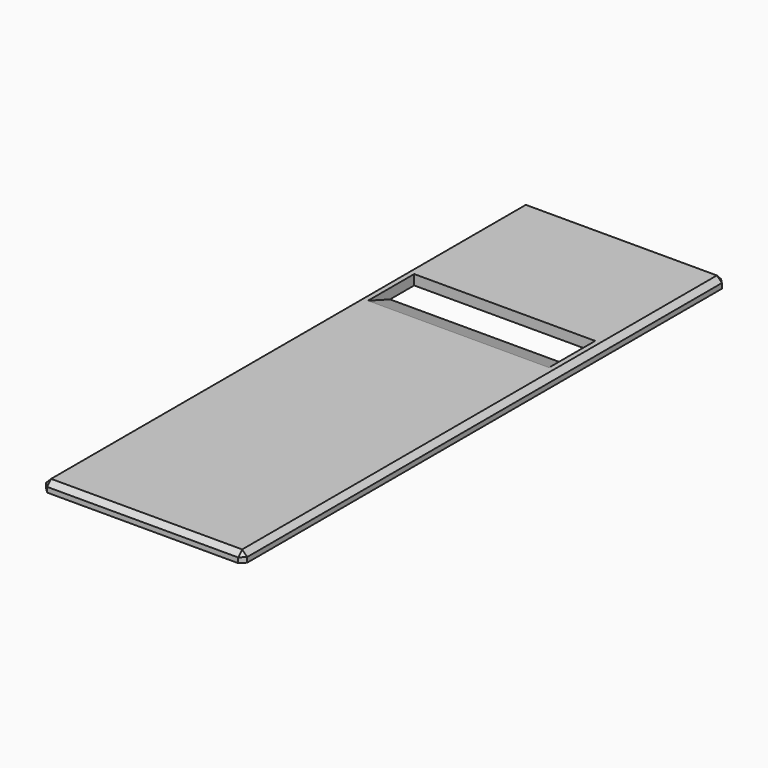
from build123d import *

# Parameters (mm, degrees)
F0_W     = 20
F0_H     = 60
F1_DEPTH = 1
F3_DEPTH = 9
F4_SIZE  = 0.5


with BuildPart() as f1:
    # F0 (on Top) → F1 (new body)
    with BuildSketch(Plane.XY):
        Rectangle(F0_W, F0_H)
    extrude(amount=F1_DEPTH)

    # F2 (on Right) → F3 (cut, symmetric)
    with BuildSketch(Plane.YZ):
        Polygon((9.252523, 1), (12, 0), (15, 0), (15, 1), align=None)
    extrude(amount=F3_DEPTH, both=True, mode=Mode.SUBTRACT)

    # F4
    f4_edges = [f1.edges().sort_by_distance(p)[0] for p in [
        (10, 0, 1),
        (0, -30, 1),
        (-10, 0, 1),
        (0, 30, 1),
        (10, -30, 0.5),
        (10, 30, 0.5),
        (-10, 30, 0.5),
        (-10, -30, 0.5),
    ]]
    chamfer(f4_edges, length=F4_SIZE)


solid = f1.part
